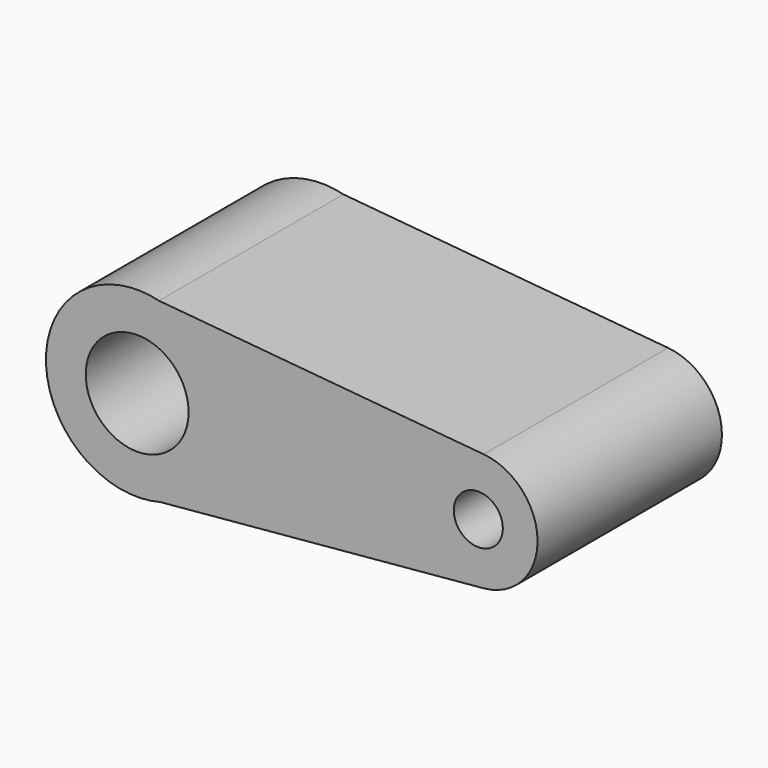
from build123d import *

# Parameters (mm, degrees)
F0_R     = 5.7858017693
F0_R_2   = 12.2144234622
F1_DEPTH = 25.4
F2_R     = 6.35
F3_DEPTH = 25.4
F4_DEPTH = 25.4
F5_R     = 11.3360487182
F5_R_2   = 5.404630024
F6_DEPTH = 143.764


with BuildPart() as f1:
    # F0 (on Front) → F1 (new body)
    with BuildSketch(Plane.XZ):
        with BuildLine():
            Line((12.9150417295, 54.2136049138), (-58.6621068715, 60.7312914672))
            ThreePointArc((-58.6621068715, 60.7312914672), (-47.6420330376, 53.6105540281), (-43.3609664676, 41.2081591785))
            ThreePointArc((-43.3609664676, 41.2081591785), (-47.549687182, 28.9245030523), (-58.370527571, 21.7590999007))
            Line((-58.370527571, 21.7590999007), (12.9064416896, 28.2019332059))
            ThreePointArc((12.9064416896, 28.2019332059), (-1.3284624626, 41.2124768589), (12.9150417295, 54.2136049138))
        make_face()
        with BuildLine():
            ThreePointArc((24.7900415902, 41.2081591785), (21.374686899, 50.0137999909), (12.9150417295, 54.2136049138))
            ThreePointArc((12.9150417295, 54.2136049138), (-1.3284624626, 41.2124768589), (12.9064416896, 28.2019332059))
            ThreePointArc((12.9064416896, 28.2019332059), (21.3717750304, 32.3993303595), (24.7900415902, 41.2081591785))
        make_face()
        with Locations((11.7307892069, 41.2081591785)):
            Circle(F0_R, mode=Mode.SUBTRACT)
        with BuildLine():
            ThreePointArc((-58.6621068715, 60.7312914672), (-61.6433409645, 61.2309324181), (-64.6657877732, 61.2779758637))
            Line((-64.6657877732, 61.2779758637), (-58.6621068715, 60.7312914672))
        make_face()
        with BuildLine():
            Line((-58.370527571, 21.7590999007), (-64.9924645965, 21.1605329743))
            ThreePointArc((-64.9924645965, 21.1605329743), (-61.6565813141, 21.1841847102), (-58.370527571, 21.7590999007))
        make_face()
        with Locations((11.7307892069, 41.2081591785)):
            Circle(F0_R)
        with BuildLine():
            Line((-58.6621068715, 60.7312914672), (-64.6657877732, 61.2779758637))
            ThreePointArc((-64.6657877732, 61.2779758637), (-83.5715244216, 41.3718739948), (-64.9924645965, 21.1605329743))
            Line((-64.9924645965, 21.1605329743), (-58.370527571, 21.7590999007))
            ThreePointArc((-58.370527571, 21.7590999007), (-47.549687182, 28.9245030523), (-43.3609664676, 41.2081591785))
            ThreePointArc((-43.3609664676, 41.2081591785), (-47.6420330376, 53.6105540281), (-58.6621068715, 60.7312914672))
        make_face()
        with Locations((-63.466578722, 41.2081591785)):
            Circle(F0_R_2, mode=Mode.SUBTRACT)
        with Locations((-63.466578722, 41.2081591785)):
            Circle(F0_R_2)
    extrude(amount=F1_DEPTH)

    # F4 (add): a face of the model
    f4_faces = [f1.faces().sort_by_distance(p)[0] for p in [
        (-33.0156051896, -25.4, 41.2168506506),
    ]]
    extrude(f4_faces, amount=F4_DEPTH)

    # F5 (on face) → F6 (cut)
    with BuildSketch(Plane.XZ.offset(50.8)):
        with Locations((-63.466578722, 41.2081591785)):
            Circle(F5_R)
        with Locations((11.7307892069, 41.2081591785)):
            Circle(F5_R_2)
    extrude(amount=-F6_DEPTH, mode=Mode.SUBTRACT)


with BuildPart() as f3:
    # F2 (on Front) → F3 (new body)
    with BuildSketch(Plane.XZ):
        with Locations((-100.2000197768, -20.0504176319)):
            Circle(F2_R)
    extrude(amount=F3_DEPTH)


solid = f1.part
